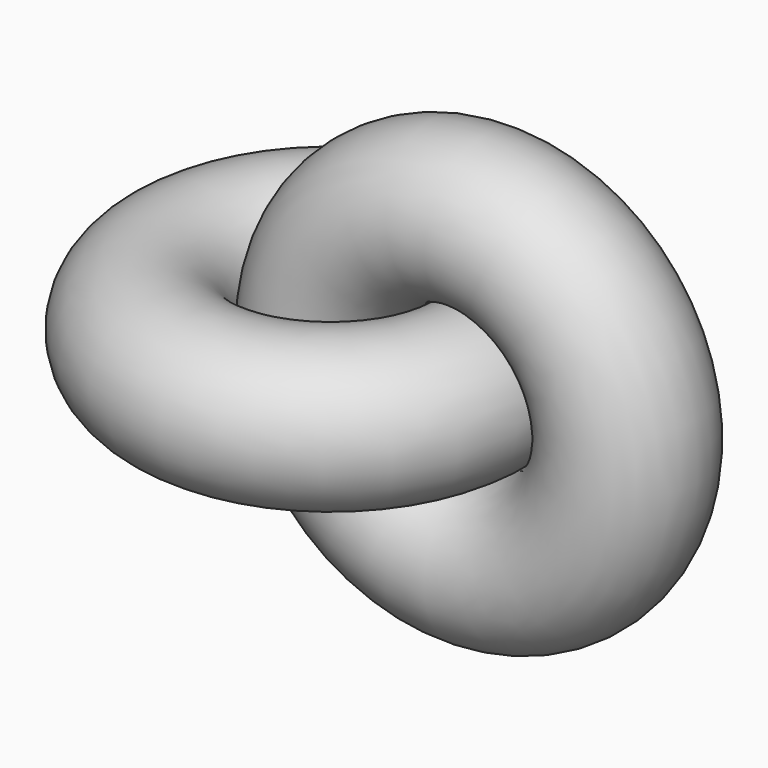
from build123d import *

# Parameters (mm, degrees)
F0_R = 25.4
F2_R = 25.4


with BuildPart() as f1:
    # F0 (on Front) → F1 (revolve)
    with BuildSketch(Plane.XZ):
        with Locations((-50.8, 0)):
            Circle(F0_R)
    revolve(axis=Axis((0, 0, 1.213599), (0, 0, 1)))


with BuildPart() as f3:
    # F2 (on Top) → F3 (revolve)
    with BuildSketch(Plane.XY):
        Circle(F2_R)
    revolve(axis=Axis((50.8, 3.48909, 0), (0, -1, 0)))


solid = Compound([f1.part, f3.part])
